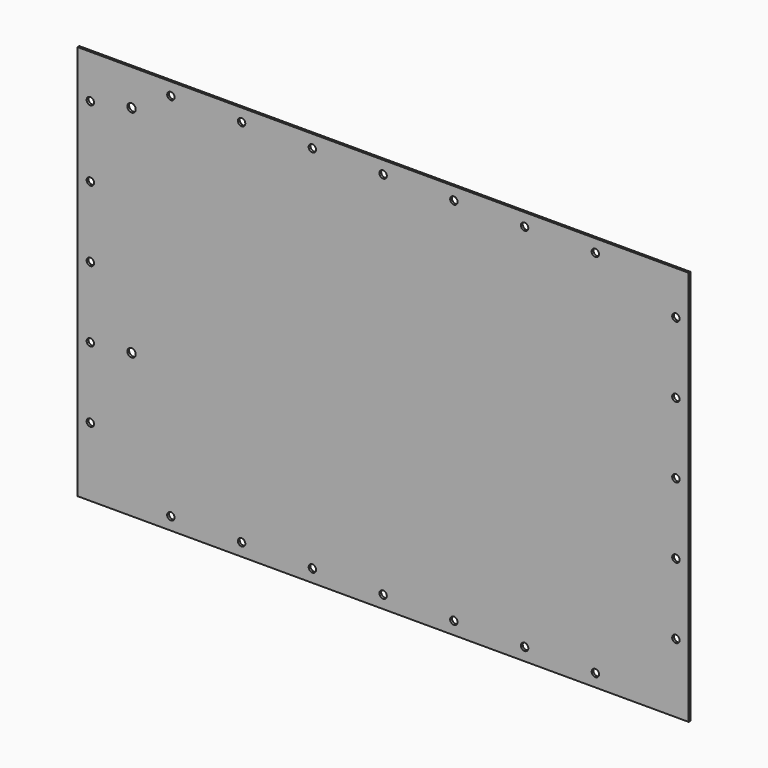
from build123d import *

# Parameters (mm, degrees)
SKETCH020_W             = 431.8
SKETCH020_H             = 279.4
PAD001_DEPTH            = 1.5748
SKETCH017_R             = 2.61
POCKET019_DEPTH         = 5
LINEARPATTERN014_COUNT  = 4
LINEARPATTERN014_PITCH  = 50
LINEARPATTERN009_COUNT  = 4
LINEARPATTERN009_PITCH  = 50
SKETCH012_R             = 2.61
POCKET015_DEPTH         = 1.5758
LINEARPATTERN008_COUNT  = 3
LINEARPATTERN008_PITCH  = 50
LINEARPATTERN013_COUNT  = 3
LINEARPATTERN013_PITCH  = 50
SKETCH015_R             = 2.61
POCKET016_DEPTH         = 1.5758
LINEARPATTERN010_COUNT  = 4
LINEARPATTERN010_PITCH  = 50
LINEARPATTERN011_COUNT  = 4
LINEARPATTERN011_PITCH  = 50
SKETCH018_R             = 2.61
POCKET018_DEPTH         = 1.5758
LINEARPATTERN015_COUNT  = 3
LINEARPATTERN015_PITCH  = 50
LINEARPATTERN012_COUNT  = 3
LINEARPATTERN012_PITCH  = 50
SKETCH019_R             = 2.95
POCKET017_DEPTH         = 1.5758
BODY001_PLACEMENT_ANGLE = 90


with BuildPart() as part:
    # Sketch020 → Pad001 (new body)
    with BuildSketch(Plane.XY):
        with Locations((0, 139.7)):
            Rectangle(SKETCH020_W, SKETCH020_H)
    extrude(amount=PAD001_DEPTH)

    # Sketch017 → Pocket019 (cut)
    with BuildSketch(Plane.XY):
        with Locations((0, 9)):
            Circle(SKETCH017_R)
    pocket019 = extrude(amount=POCKET019_DEPTH, mode=Mode.SUBTRACT)

    # LinearPattern014: Pocket019 ×4
    with Locations(*[(i * LINEARPATTERN014_PITCH, 0, 0) for i in range(1, LINEARPATTERN014_COUNT)]):
        add(pocket019, mode=Mode.SUBTRACT)

    # LinearPattern009: Pocket019 ×4
    with Locations(*[(-i * LINEARPATTERN009_PITCH, 0, 0) for i in range(1, LINEARPATTERN009_COUNT)]):
        add(pocket019, mode=Mode.SUBTRACT)

    # Sketch012 → Pocket015 (cut, through all)
    with BuildSketch(Plane.XY):
        with Locations((-206.9, 130.7)):
            Circle(SKETCH012_R)
    pocket015 = extrude(amount=POCKET015_DEPTH, mode=Mode.SUBTRACT)

    # LinearPattern008: Pocket015 ×3
    with Locations(*[(0, -i * LINEARPATTERN008_PITCH, 0) for i in range(1, LINEARPATTERN008_COUNT)]):
        add(pocket015, mode=Mode.SUBTRACT)

    # LinearPattern013: Pocket015 ×3
    with Locations(*[(0, i * LINEARPATTERN013_PITCH, 0) for i in range(1, LINEARPATTERN013_COUNT)]):
        add(pocket015, mode=Mode.SUBTRACT)

    # Sketch015 → Pocket016 (cut, through all)
    with BuildSketch(Plane.XY):
        with Locations((0, 270.4)):
            Circle(SKETCH015_R)
    pocket016 = extrude(amount=POCKET016_DEPTH, mode=Mode.SUBTRACT)

    # LinearPattern010: Pocket016 ×4
    with Locations(*[(i * LINEARPATTERN010_PITCH, 0, 0) for i in range(1, LINEARPATTERN010_COUNT)]):
        add(pocket016, mode=Mode.SUBTRACT)

    # LinearPattern011: Pocket016 ×4
    with Locations(*[(-i * LINEARPATTERN011_PITCH, 0, 0) for i in range(1, LINEARPATTERN011_COUNT)]):
        add(pocket016, mode=Mode.SUBTRACT)

    # Sketch018 → Pocket018 (cut, through all)
    with BuildSketch(Plane.XY):
        with Locations((206.9, 130.7)):
            Circle(SKETCH018_R)
    pocket018 = extrude(amount=POCKET018_DEPTH, mode=Mode.SUBTRACT)

    # LinearPattern015: Pocket018 ×3
    with Locations(*[(0, i * LINEARPATTERN015_PITCH, 0) for i in range(1, LINEARPATTERN015_COUNT)]):
        add(pocket018, mode=Mode.SUBTRACT)

    # LinearPattern012: Pocket018 ×3
    with Locations(*[(0, -i * LINEARPATTERN012_PITCH, 0) for i in range(1, LINEARPATTERN012_COUNT)]):
        add(pocket018, mode=Mode.SUBTRACT)

    # Sketch019 → Pocket017 (cut, through all)
    with BuildSketch(Plane.XY):
        with Locations((-177.8, 177.8)):
            Circle(SKETCH019_R)
        with Locations((-177.8, 25.4)):
            Circle(SKETCH019_R)
    extrude(amount=POCKET017_DEPTH, mode=Mode.SUBTRACT)


with BuildPart() as part_1:
    # Body001 placement: moved
    add(part.part.moved(Location((-81, -61, -198))).rotate(Axis((-81, -61, -198), (-1, 0, 0)), BODY001_PLACEMENT_ANGLE))


solid = part_1.part
